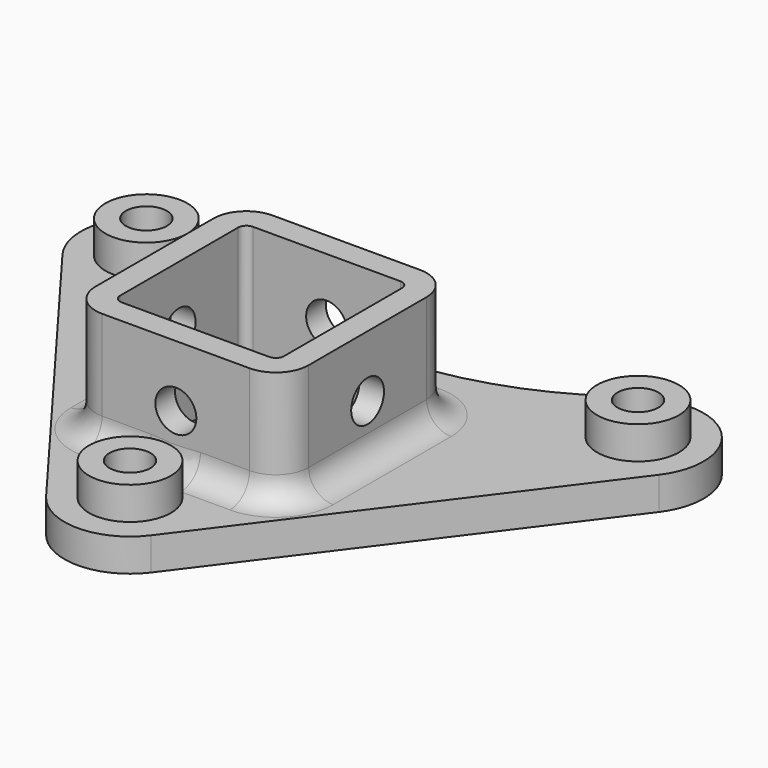
from build123d import *

# Parameters (mm, degrees)
SKETCH086_R           = 2.5
PAD028_DEPTH          = 4
PAD029_DEPTH          = 14
SKETCH088_R           = 2.5
POCKET028_DEPTH       = 4.5
POLARPATTERN014_COUNT = 4
SKETCH089_R           = 5
SKETCH089_R_2         = 2.5
PAD030_DEPTH          = 4
FILLET_R              = 3


with BuildPart() as part:
    # Sketch086 → Pad028 (new body)
    with BuildSketch(Plane.XY):
        with BuildLine():
            Line((36.4, 15.2), (6.4, -24.8))
            ThreePointArc((-6.4, -24.8), (0, -28), (6.4, -24.8))
            Line((-6.4, -24.8), (-36.4, 15.2))
            ThreePointArc((-25.905574, 26.872821), (-35.949169, 25.348588), (-36.4, 15.2))
            Line((-25.905574, 26.872821), (-20.472131, 23.635893))
            ThreePointArc((-20.472131, 23.635893), (0, 18), (20.472131, 23.635893))
            Line((25.905574, 26.872821), (20.472131, 23.635893))
            ThreePointArc((36.4, 15.2), (35.949169, 25.348588), (25.905574, 26.872821))
        make_face()
        with Locations((30, 20)):
            Circle(SKETCH086_R, mode=Mode.SUBTRACT)
        with Locations((-30, 20)):
            Circle(SKETCH086_R, mode=Mode.SUBTRACT)
        with Locations((0, -20)):
            Circle(SKETCH086_R, mode=Mode.SUBTRACT)
        with BuildLine():
            Line((-9, -10), (9, -10))
            ThreePointArc((9, -10), (9.707107, -9.707107), (10, -9))
            Line((10, -9), (10, 9))
            ThreePointArc((10, 9), (9.707107, 9.707107), (9, 10))
            Line((9, 10), (-9, 10))
            ThreePointArc((-9, 10), (-9.707107, 9.707107), (-10, 9))
            Line((-10, 9), (-10, -9))
            ThreePointArc((-10, -9), (-9.707107, -9.707107), (-9, -10))
        make_face(mode=Mode.SUBTRACT)
    extrude(amount=PAD028_DEPTH)

    # Sketch087 (on Face21 of Pad028) → Pad029 (join)
    with BuildSketch(Plane.XY.offset(4)):
        with BuildLine():
            Line((-9, 13), (9, 13))
            ThreePointArc((13, 9), (11.828427, 11.828427), (9, 13))
            Line((13, 9), (13, -9))
            ThreePointArc((9, -13), (11.828427, -11.828427), (13, -9))
            Line((9, -13), (-9, -13))
            ThreePointArc((-13, -9), (-11.828427, -11.828427), (-9, -13))
            Line((-13, -9), (-13, 9))
            ThreePointArc((-9, 13), (-11.828427, 11.828427), (-13, 9))
        make_face()
        with BuildLine():
            Line((-9, -10), (9, -10))
            ThreePointArc((9, -10), (9.707107, -9.707107), (10, -9))
            Line((10, -9), (10, 9))
            ThreePointArc((10, 9), (9.707107, 9.707107), (9, 10))
            Line((9, 10), (-9, 10))
            ThreePointArc((-9, 10), (-9.707107, 9.707107), (-10, 9))
            Line((-10, 9), (-10, -9))
            ThreePointArc((-10, -9), (-9.707107, -9.707107), (-9, -10))
        make_face(mode=Mode.SUBTRACT)
    extrude(amount=PAD029_DEPTH)

    # Sketch088 → Pocket028 (cut, symmetric)
    with BuildSketch(Plane(origin=(0, 13, 0), x_dir=(-1, 0, 0), z_dir=(0, 1, 0))):
        with Locations((0, 10.5)):
            Circle(SKETCH088_R)
    pocket028 = extrude(amount=POCKET028_DEPTH, both=True, mode=Mode.SUBTRACT)

    # PolarPattern014: Pocket028 ×4 about axis
    polarpattern014_axis = Axis((0, 0, 0), (0, 0, 1))
    for i in range(1, POLARPATTERN014_COUNT):
        add(pocket028.rotate(polarpattern014_axis, i * 360 / POLARPATTERN014_COUNT), mode=Mode.SUBTRACT)

    # Sketch089 (on Face1 of PolarPattern014) → Pad030 (join)
    with BuildSketch(Plane.XY.offset(4)):
        with Locations((30, 20)):
            Circle(SKETCH089_R)
        with Locations((30, 20)):
            Circle(SKETCH089_R_2, mode=Mode.SUBTRACT)
        with Locations((-30, 20)):
            Circle(SKETCH089_R)
        with Locations((-30, 20)):
            Circle(SKETCH089_R_2, mode=Mode.SUBTRACT)
        with Locations((0, -20)):
            Circle(SKETCH089_R)
        with Locations((0, -20)):
            Circle(SKETCH089_R_2, mode=Mode.SUBTRACT)
    extrude(amount=PAD030_DEPTH)

    # Fillet
    fillet_edges = [part.edges().sort_by_distance(p)[0] for p in [
        (-11.828427, 11.828427, 4),
    ]]
    fillet(fillet_edges, radius=FILLET_R)


solid = part.part
